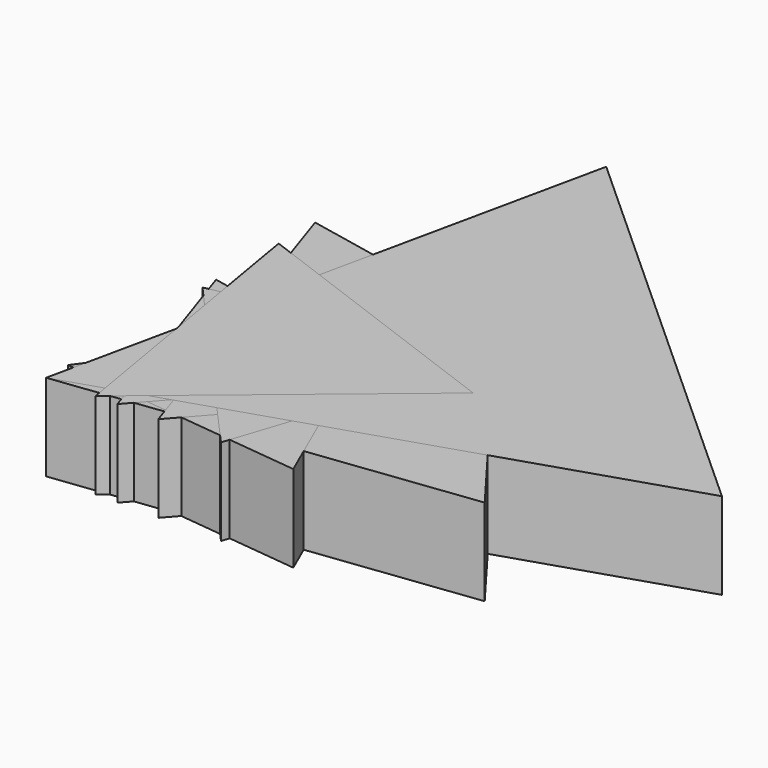
from build123d import *

# Parameters (mm, degrees)
PAD_DEPTH    = 10
PAD001_DEPTH = 10
PAD002_DEPTH = 10
PAD003_DEPTH = 10
PAD004_DEPTH = 10
PAD005_DEPTH = 10
PAD006_DEPTH = 10
PAD007_DEPTH = 10
PAD008_DEPTH = 10


with BuildPart() as body001:
    # Sketch → Pad (new body)
    with BuildSketch(Plane.XY):
        Polygon((0, 0), (45.987872, 5.648683), (18.102033, 42.651007), align=None)
    extrude(amount=PAD_DEPTH)


with BuildPart() as body002:
    # Sketch001 → Pad001 (new body)
    with BuildSketch(Plane.XY):
        Polygon((0, 0), (-11.495134, 26.22936), (-28.462859, 3.159603), align=None)
    extrude(amount=PAD001_DEPTH)


with BuildPart() as body002_1:
    # Body002 placement: moved
    add(body002.part.moved(Location((28.462859, 0, 0))))


with BuildPart() as body003:
    # Sketch002 → Pad002 (new body)
    with BuildSketch(Plane.XY):
        Polygon((0, 0), (8.205842, -24.465275), (25.290471, -5.12617), align=None)
    extrude(amount=PAD002_DEPTH)


with BuildPart() as body003_1:
    # Body003 placement: moved
    add(body003.part.moved(Location((0, 24.465275, 0))))


with BuildPart() as body004:
    # Sketch003 → Pad003 (new body)
    with BuildSketch(Plane.XY):
        Polygon((0, 0), (27.073405, 30.548265), (-12.918871, 38.720389), align=None)
    extrude(amount=PAD003_DEPTH)


with BuildPart() as body004_1:
    # Body004 placement: moved
    add(body004.part.moved(Location((12.918871, 0, 0))))


with BuildPart() as body005:
    # Sketch004 → Pad004 (new body)
    with BuildSketch(Plane.XY):
        Polygon((0, 0), (-29.562009, -6.185213), (-9.424453, -28.694057), align=None)
    extrude(amount=PAD004_DEPTH)


with BuildPart() as body005_1:
    # Body005 placement: moved
    add(body005.part.moved(Location((29.562009, 28.694057, 0))))


with BuildPart() as body006:
    # Sketch005 → Pad005 (new body)
    with BuildSketch(Plane.XY):
        Polygon((0, 0), (-13.660303, -63.548782), (48.204708, -43.604561), align=None)
    extrude(amount=PAD005_DEPTH)


with BuildPart() as body006_1:
    # Body006 placement: moved
    add(body006.part.moved(Location((13.660303, 63.548782, 0))))


with BuildPart() as body007:
    # Sketch006 → Pad006 (new body)
    with BuildSketch(Plane.XY):
        Polygon((0, 0), (-31.835562, 11.811761), (-26.147066, -21.664525), align=None)
    extrude(amount=PAD006_DEPTH)


with BuildPart() as body007_1:
    # Body007 placement: moved
    add(body007.part.moved(Location((31.835562, 21.664525, 0))))


with BuildPart() as body008:
    # Sketch007 → Pad007 (new body)
    with BuildSketch(Plane.XY):
        Polygon((0, 0), (-31.835562, 11.811761), (-26.147066, -21.664525), align=None)
    extrude(amount=PAD007_DEPTH)


with BuildPart() as body008_1:
    # Body008 placement: moved
    add(body008.part.moved(Location((31.835562, 21.664525, 0))))


with BuildPart() as body009:
    # Sketch008 → Pad008 (new body)
    with BuildSketch(Plane.XY):
        Polygon((0, 0), (-31.835562, 11.811761), (-26.147066, -21.664525), align=None)
    extrude(amount=PAD008_DEPTH)


with BuildPart() as body009_1:
    # Body009 placement: moved
    add(body009.part.moved(Location((31.835562, 21.664525, 0))))


solid = Compound([body001.part, body002_1.part, body003_1.part, body004_1.part, body005_1.part, body006_1.part, body007_1.part, body008_1.part, body009_1.part])
